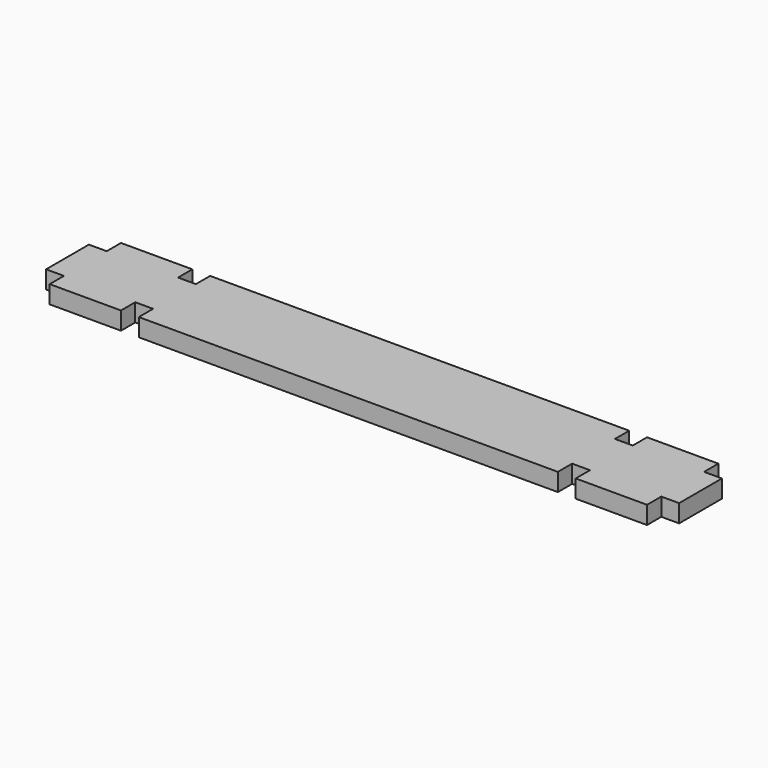
from build123d import *

# Parameters (mm, degrees)
F1_DEPTH = 6.35


with BuildPart() as f1:
    # F0 (on Top) → F1 (new body)
    with BuildSketch(Plane.XY):
        Polygon((6.35, 6.35), (6.35, 0), (31.75, 0), (31.75, 6.35), (38.1, 6.35), (38.1, 0), (187.325, 0), (187.325, 6.35), (193.675, 6.35), (193.675, 0), (219.075, 0), (219.075, 6.35), (225.425, 6.35), (225.425, 25.4), (219.075, 25.4), (219.075, 31.75), (193.675, 31.75), (193.675, 25.4), (187.325, 25.4), (187.325, 31.75), (38.1, 31.75), (38.1, 25.4), (31.75, 25.4), (31.75, 31.75), (6.35, 31.75), (6.35, 25.4), (0, 25.4), (0, 6.35), align=None)
    extrude(amount=F1_DEPTH)


solid = f1.part
